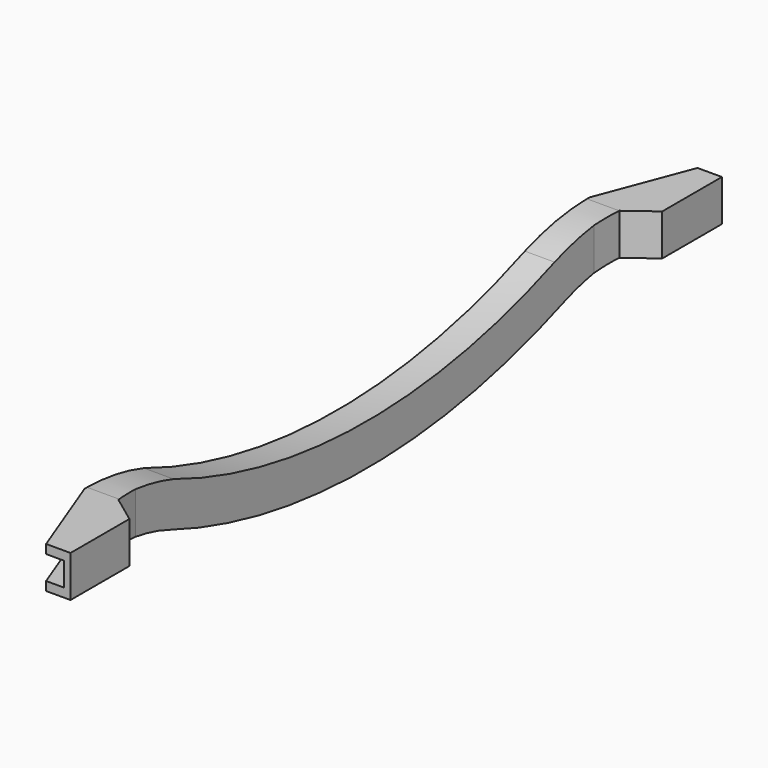
from build123d import *

# Parameters (mm, degrees)
EXTRUDE064_DEPTH           = 5
EXTRUDE066_DEPTH           = 5
EXTRUDE066_PLACEMENT_ANGLE = 180
EXTRUDE065_DEPTH           = 2
EXTRUDE065_PLACEMENT_ANGLE = 180
EXTRUDE061_DEPTH           = 2
EXTRUDE063_DEPTH           = 3
EXTRUDE060_DEPTH           = 10
EXTRUDE057_DEPTH           = 5


with BuildPart() as extrude064:
    # Sketch039 → Extrude064 (new body)
    with BuildSketch(Plane.XY):
        Polygon((-0.523418, -66.073971), (-3.588769, -58.006004), (-3.588769, -66.073971), align=None)
    extrude(amount=EXTRUDE064_DEPTH)


with BuildPart() as extrude064_1:
    # Extrude064 placement: moved
    add(extrude064.part.moved(Location((-2, 0, -1))))


with BuildPart() as fusion056:
    # Sketch039 → Extrude066 (new body)
    with BuildSketch(Plane.XY):
        Polygon((-0.523418, -66.073971), (-3.588769, -58.006004), (-3.588769, -66.073971), align=None)
    extrude(amount=EXTRUDE066_DEPTH)


with BuildPart() as fusion056_1:
    # Extrude066 placement: moved
    add(fusion056.part.moved(Location((-2, -63.2, 3.5))).rotate(Axis((-2, -63.2, 3.5), (1, 0, 0)), EXTRUDE066_PLACEMENT_ANGLE))

    # Fusion056: union Extrude064
    add(extrude064_1.part)


with BuildPart() as extrude065:
    # Sketch037 → Extrude065 (new body)
    with BuildSketch(Plane.XY):
        Polygon((-0.523418, -66.073971), (-3.588769, -58.006004), (-3.588769, -66.073971), align=None)
    extrude(amount=EXTRUDE065_DEPTH)


with BuildPart() as extrude065_1:
    # Extrude065 placement: moved
    add(extrude065.part.moved(Location((-0.5, -63.2, 2.45))).rotate(Axis((-0.5, -63.2, 2.45), (1, 0, 0)), EXTRUDE065_PLACEMENT_ANGLE))


with BuildPart() as fusion055:
    # Sketch037 → Extrude061 (new body)
    with BuildSketch(Plane.XY):
        Polygon((-0.523418, -66.073971), (-3.588769, -58.006004), (-3.588769, -66.073971), align=None)
    extrude(amount=EXTRUDE061_DEPTH)


with BuildPart() as fusion055_1:
    # Extrude061 placement: moved
    add(fusion055.part.moved(Location((-0.5, 0, 0.4))))

    # Fusion055: union Extrude065
    add(extrude065_1.part)


with BuildPart() as extrude063:
    # Sketch038 → Extrude063 (new body)
    with BuildSketch(Plane.YZ):
        with BuildLine():
            ThreePointArc((-52.009312, -0.734582), (-31.50638, -4.580156), (-11.018523, -0.655055))
            ThreePointArc((-5.240026, 0.419738), (-8.178332, 0.146093), (-11.018523, -0.655055))
            Line((-5.240026, 0.419738), (2.759974, 0.419738))
            Line((2.759974, 0.419738), (2.759974, 2.419738))
            Line((2.759974, 2.419738), (-5.240026, 2.419738))
            ThreePointArc((-5.240026, 2.419738), (-8.772288, 2.061286), (-12.172965, 1.041109))
            ThreePointArc((-51.872542, 1.363439), (-32.05345, -2.578482), (-12.172965, 1.041109))
            ThreePointArc((-51.872542, 1.363439), (-54.88716, 2.147131), (-57.990026, 2.419738))
            Line((-65.990026, 2.419738), (-57.990026, 2.419738))
            Line((-65.990026, 0.419738), (-65.990026, 2.419738))
            Line((-57.990026, 0.419738), (-65.990026, 0.419738))
            ThreePointArc((-52.009312, -0.734582), (-54.946975, 0.115595), (-57.990026, 0.419738))
        make_face()
    extrude(amount=EXTRUDE063_DEPTH)


with BuildPart() as extrude063_1:
    # Extrude063 placement: moved
    add(extrude063.part.moved(Location((-7, 0, 0))))


with BuildPart() as extrude060:
    # Sketch036 → Extrude060 (new body)
    with BuildSketch(Plane.XY):
        Polygon((-0.489114, -59.765606), (-2.785057, -58.065606), (-2.989114, -56.006916), (-2.989114, -7.606139), (-2.772346, -5.215606), (-0.489114, -3.515606), align=None)
    extrude(amount=EXTRUDE060_DEPTH)


with BuildPart() as extrude060_1:
    # Extrude060 placement: moved
    add(extrude060.part.moved(Location((0, 0, -6))))


with BuildPart() as obj1:
    # Sketch033 → Extrude057 (new body)
    with BuildSketch(Plane.YZ):
        with BuildLine():
            ThreePointArc((-52.506138, -1.600172), (-31.607264, -5.496793), (-10.720935, -1.533483))
            ThreePointArc((-5.324033, -0.496866), (-8.066716, -0.784889), (-10.720935, -1.533483))
            Line((-5.324033, -0.496866), (2.675967, -0.496866))
            Line((2.675967, -0.496866), (2.675967, 3.003134))
            Line((2.675967, 3.003134), (-5.324033, 3.003134))
            ThreePointArc((-5.324033, 3.003134), (-8.649812, 2.668233), (-11.870907, 1.7752))
            ThreePointArc((-52.088632, 2.000492), (-32.001526, -1.996019), (-11.870907, 1.7752))
            ThreePointArc((-52.088632, 2.000492), (-55.042543, 2.733373), (-58.074033, 3.003134))
            Line((-66.074033, 3.003134), (-58.074033, 3.003134))
            Line((-66.074033, -0.496866), (-66.074033, 3.003134))
            Line((-58.074033, -0.496866), (-66.074033, -0.496866))
            ThreePointArc((-52.506138, -1.600172), (-55.241791, -0.804798), (-58.074033, -0.496866))
        make_face()
    extrude(amount=EXTRUDE057_DEPTH)


with BuildPart() as obj1_1:
    # Extrude057 placement: moved
    add(obj1.part.moved(Location((-5.5, 0.1, 0.15))))

    # Cut060: cut Extrude060
    add(extrude060_1.part, mode=Mode.SUBTRACT)

    # Cut061: cut Extrude063
    add(extrude063_1.part, mode=Mode.SUBTRACT)

    # Cut062: cut Fusion055
    add(fusion055_1.part, mode=Mode.SUBTRACT)

    # Cut063: cut Fusion056
    add(fusion056_1.part, mode=Mode.SUBTRACT)


with BuildPart() as obj1_2:
    # Cut063 placement: moved
    add(obj1_1.part.moved(Location((0, 0, -0.15))))


solid = obj1_2.part
